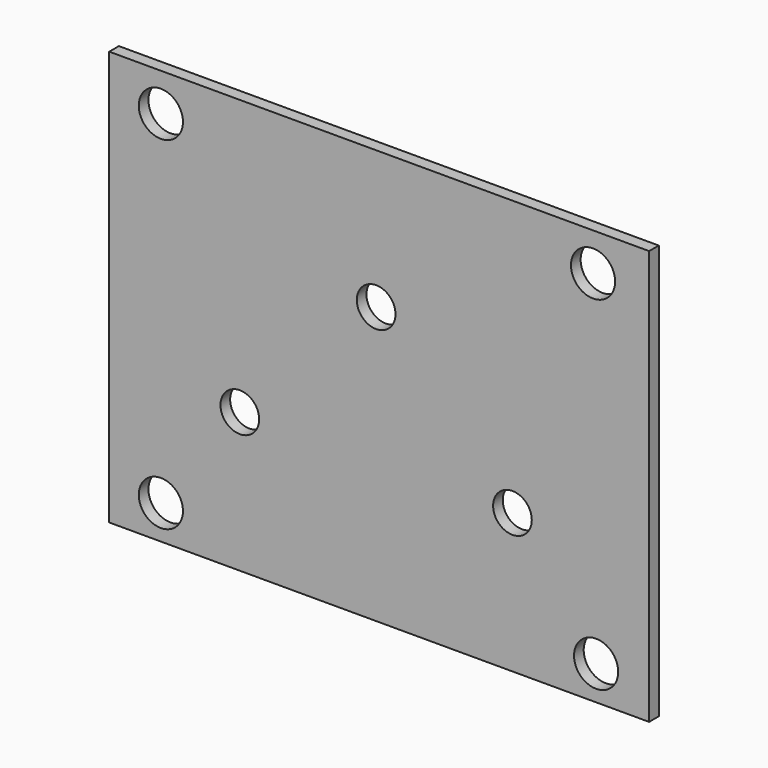
from build123d import *

# Parameters (mm, degrees)
F0_W     = 113.607649
F0_H     = 87.222615
F0_R     = 4.645393
F0_R_2   = 4.070252
F1_DEPTH = 2.54


with BuildPart() as f1:
    # F0 (on Front) → F1 (new body)
    with BuildSketch(Plane.XZ):
        with Locations((3.950249, -0.809344)):
            Rectangle(F0_W, F0_H)
        with Locations((-41.989459, -37.272257)):
            Circle(F0_R, mode=Mode.SUBTRACT)
        with Locations((-25.371181, -15.050495)):
            Circle(F0_R_2, mode=Mode.SUBTRACT)
        with Locations((49.60159, -37.272257)):
            Circle(F0_R, mode=Mode.SUBTRACT)
        with Locations((31.995369, -15.050495)):
            Circle(F0_R_2, mode=Mode.SUBTRACT)
        with Locations((3.312094, 13.73977)):
            Circle(F0_R_2, mode=Mode.SUBTRACT)
        with Locations((-41.989459, 34.822928)):
            Circle(F0_R, mode=Mode.SUBTRACT)
        with Locations((48.956322, 34.822928)):
            Circle(F0_R, mode=Mode.SUBTRACT)
    extrude(amount=F1_DEPTH)


solid = f1.part
